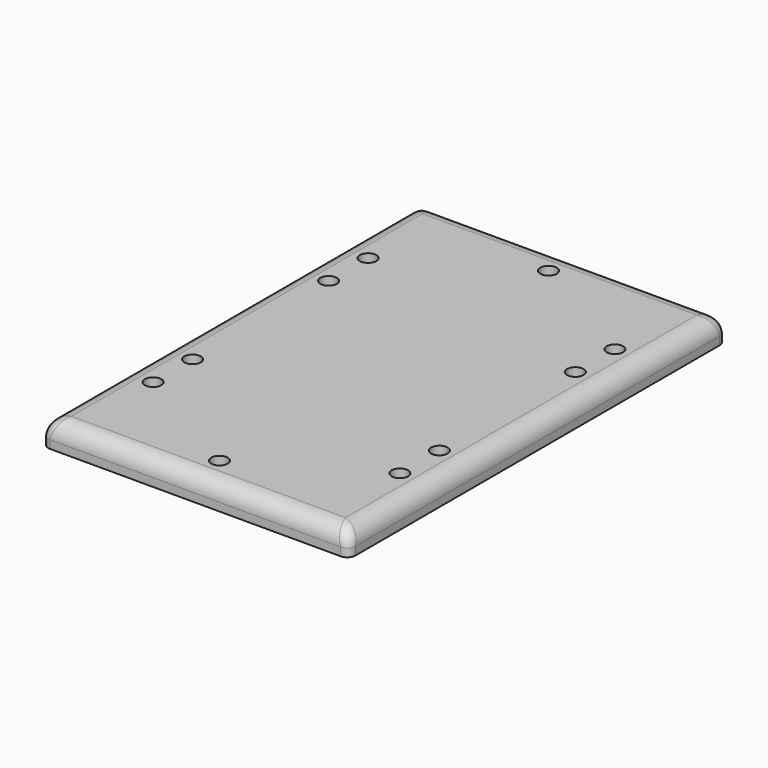
from build123d import *

# Parameters (mm, degrees)
SKETCH_W        = 224
SKETCH_H        = 344
PAD_DEPTH       = 18
SKETCH001_R     = 6
POCKET_DEPTH    = 7
SKETCH002_R     = 3.1
POCKET001_DEPTH = 11
FILLET_R        = 6
FILLET001_R     = 6
FILLET002_R     = 6
FILLET003_R     = 6
FILLET004_R     = 12


with BuildPart() as part:
    # Sketch → Pad (new body)
    with BuildSketch(Plane.XY):
        with Locations((112, 172)):
            Rectangle(SKETCH_W, SKETCH_H)
    extrude(amount=PAD_DEPTH)

    # Sketch001 (on Face6 of Pad) → Pocket (cut)
    with BuildSketch(Plane.XY.offset(18)):
        with Locations((112, 322)):
            Circle(SKETCH001_R)
        with Locations((22, 270)):
            Circle(SKETCH001_R)
        with Locations((22, 74)):
            Circle(SKETCH001_R)
        with Locations((202, 234)):
            Circle(SKETCH001_R)
        with Locations((202, 110)):
            Circle(SKETCH001_R)
        with Locations((112, 22)):
            Circle(SKETCH001_R)
        with Locations((22, 234)):
            Circle(SKETCH001_R)
        with Locations((22, 110)):
            Circle(SKETCH001_R)
        with Locations((202, 270)):
            Circle(SKETCH001_R)
        with Locations((202, 74)):
            Circle(SKETCH001_R)
    extrude(amount=-POCKET_DEPTH, mode=Mode.SUBTRACT)

    # Sketch002 (on Face4 of Pocket) → Pocket001 (cut)
    with BuildSketch(Plane(origin=(0, 0, 0), x_dir=(1, 0, 0), z_dir=(0, 0, -1))):
        with Locations((112, -22)):
            Circle(SKETCH002_R)
        with Locations((22, -74)):
            Circle(SKETCH002_R)
        with Locations((22, -110)):
            Circle(SKETCH002_R)
        with Locations((22, -234)):
            Circle(SKETCH002_R)
        with Locations((22, -270)):
            Circle(SKETCH002_R)
        with Locations((202, -74)):
            Circle(SKETCH002_R)
        with Locations((202, -110)):
            Circle(SKETCH002_R)
        with Locations((202, -234)):
            Circle(SKETCH002_R)
        with Locations((202, -270)):
            Circle(SKETCH002_R)
        with Locations((112, -322)):
            Circle(SKETCH002_R)
    extrude(amount=-POCKET001_DEPTH, mode=Mode.SUBTRACT)

    # Fillet
    fillet_edges = [part.edges().sort_by_distance(p)[0] for p in [
        (224, 0, 9),
    ]]
    fillet(fillet_edges, radius=FILLET_R)

    # Fillet001
    fillet001_edges = [part.edges().sort_by_distance(p)[0] for p in [
        (0, 0, 9),
    ]]
    fillet(fillet001_edges, radius=FILLET001_R)

    # Fillet002
    fillet002_edges = [part.edges().sort_by_distance(p)[0] for p in [
        (0, 344, 9),
    ]]
    fillet(fillet002_edges, radius=FILLET002_R)

    # Fillet003
    fillet003_edges = [part.edges().sort_by_distance(p)[0] for p in [
        (224, 344, 9),
    ]]
    fillet(fillet003_edges, radius=FILLET003_R)

    # Fillet004
    fillet004_edges = [part.edges().sort_by_distance(p)[0] for p in [
        (112, 0, 18),
        (222.242641, 1.757359, 18),
        (1.757359, 1.757359, 18),
        (0, 172, 18),
        (1.757359, 342.242641, 18),
        (112, 344, 18),
        (222.242641, 342.242641, 18),
        (224, 172, 18),
    ]]
    fillet(fillet004_edges, radius=FILLET004_R)


solid = part.part
